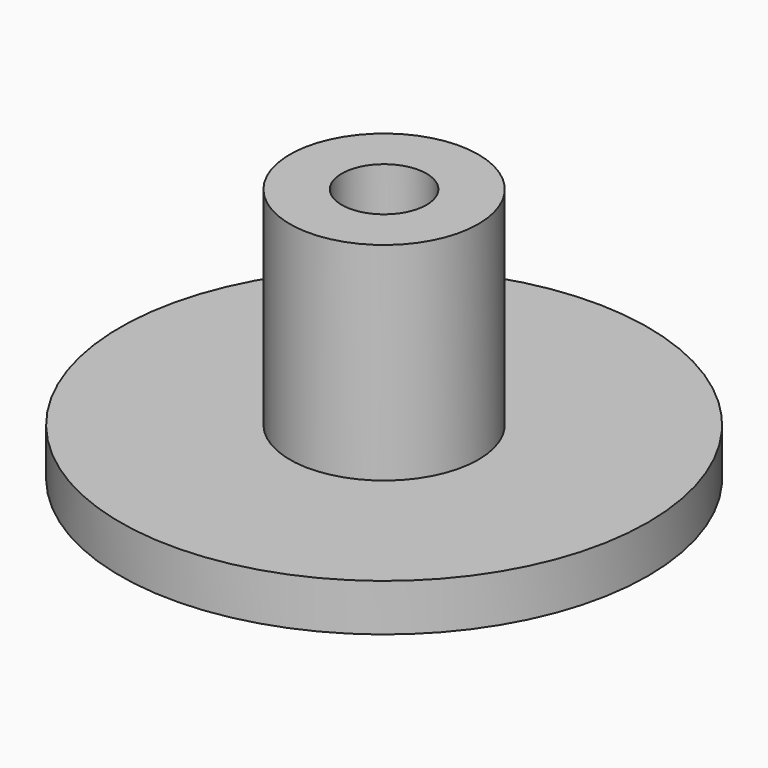
from build123d import *

# Parameters (mm, degrees)
F0_R     = 28
F1_DEPTH = 5
F2_R     = 10
F3_DEPTH = 22
F4_R     = 6
F5_DEPTH = 3
F6_R     = 4.5
F7_DEPTH = 27


with BuildPart() as f1:
    # F0 (on Top) → F1 (new body)
    with BuildSketch(Plane.XY):
        Circle(F0_R)
    extrude(amount=F1_DEPTH)

    # F2 (on face) → F3 (join)
    with BuildSketch(Plane.XY.offset(5)):
        Circle(F2_R)
    extrude(amount=F3_DEPTH)

    # F4 (on face) → F5 (cut)
    with BuildSketch(Plane(origin=(0, 0, 0), x_dir=(1, 0, 0), z_dir=(0, 0, -1))):
        Circle(F4_R)
    extrude(amount=-F5_DEPTH, mode=Mode.SUBTRACT)

    # F6 (on face) → F7 (cut)
    with BuildSketch(Plane(origin=(0, 0, 0), x_dir=(1, 0, 0), z_dir=(0, 0, -1))):
        Circle(F6_R)
    extrude(amount=-F7_DEPTH, mode=Mode.SUBTRACT)


solid = f1.part
